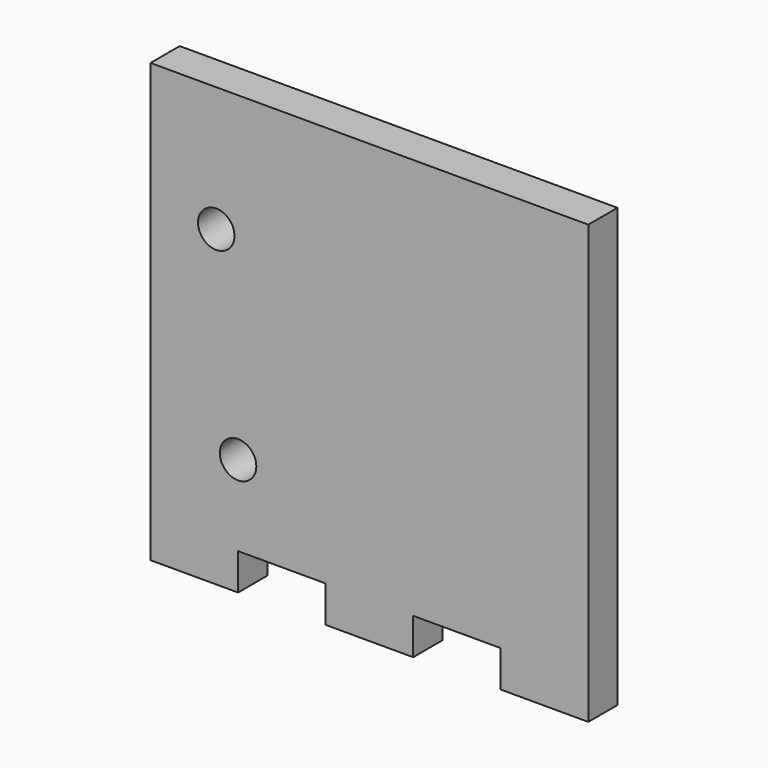
from build123d import *

# Parameters (mm, degrees)
F0_W     = 38.1
F0_H     = 38.1
F1_DEPTH = 3.175
F2_W     = 7.62
F2_H     = 3.175
F2_R     = 1.5875
F3_DEPTH = 3.175
F4_DEPTH = 2.54


with BuildPart() as f1:
    # F0 (on Front) → F1 (new body)
    with BuildSketch(Plane.XZ):
        with Locations((-6.205209, -2.285485)):
            Rectangle(F0_W, F0_H)
    extrude(amount=F1_DEPTH)

    # F2 (on face) → F3 (cut)
    with BuildSketch(Plane.XZ.offset(3.175)):
        with Locations((-13.825209, -19.747985)):
            Rectangle(F2_W, F2_H)
        with Locations((1.414791, -19.747985)):
            Rectangle(F2_W, F2_H)
        with Locations((-19.535628, 5.882839)):
            Circle(F2_R)
        with Locations((-17.635209, -11.156511)):
            Circle(F2_R)
    extrude(amount=-F3_DEPTH, mode=Mode.SUBTRACT)

    # F2 (on face) → F4 (cut)
    with BuildSketch(Plane.XZ.offset(3.175)):
        with Locations((-17.635209, -11.156511)):
            Circle(F2_R)
        with Locations((-19.535628, 5.882839)):
            Circle(F2_R)
    extrude(amount=-F4_DEPTH, mode=Mode.SUBTRACT)


solid = f1.part
